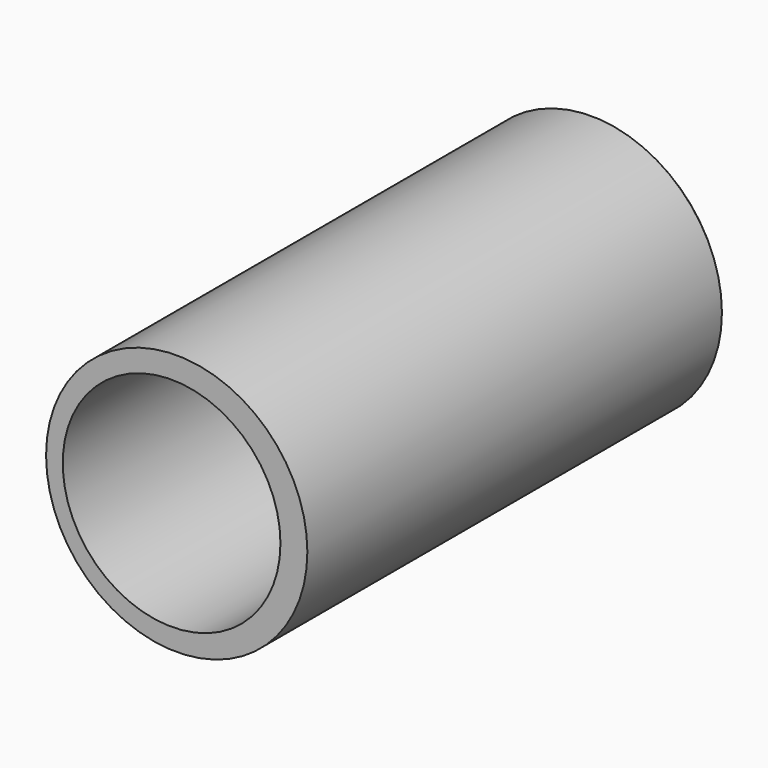
from build123d import *

# Parameters (mm, degrees)
F0_R     = 15
F0_R_2   = 12.5
F1_DEPTH = 60
F2_SIZE  = 0.5


with BuildPart() as f1:
    # F0 (on Front) → F1 (new body)
    with BuildSketch(Plane.XZ):
        Circle(F0_R)
        with Locations((-0.588487, -0.147121)):
            Circle(F0_R_2, mode=Mode.SUBTRACT)
    extrude(amount=F1_DEPTH)

    # F2
    f2_edges = [f1.edges().sort_by_distance(p)[0] for p in [
        (-15, 0, 0),
    ]]
    chamfer(f2_edges, length=F2_SIZE)


solid = f1.part
